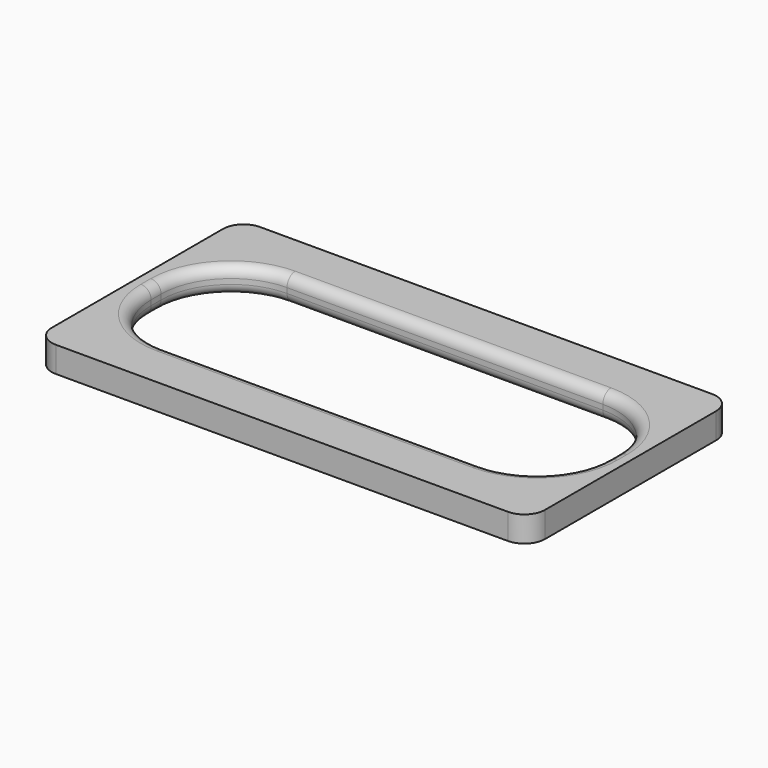
from build123d import *

# Parameters (mm, degrees)
F1_DEPTH = 3.175
F2_R     = 1.27
F3_R     = 1.27


with BuildPart() as f1:
    # F0 (on Top) → F1 (new body)
    with BuildSketch(Plane.XY):
        with BuildLine():
            ThreePointArc((30.4419, 13.208), (29.697951, 15.004051), (27.9019, 15.748))
            Line((27.9019, 15.748), (-27.9019, 15.748))
            ThreePointArc((-27.9019, 15.748), (-29.697951, 15.004051), (-30.4419, 13.208))
            Line((-30.4419, 13.208), (-30.4419, -13.208))
            ThreePointArc((-30.4419, -13.208), (-29.697951, -15.004051), (-27.9019, -15.748))
            Line((-27.9019, -15.748), (27.9019, -15.748))
            ThreePointArc((27.9019, -15.748), (29.697951, -15.004051), (30.4419, -13.208))
            Line((30.4419, -13.208), (30.4419, 13.208))
        make_face()
        with BuildLine():
            ThreePointArc((28.1305, -0.762), (25.601074, -6.868574), (19.4945, -9.398))
            Line((19.4945, -9.398), (-19.4945, -9.398))
            ThreePointArc((-19.4945, -9.398), (-25.601074, -6.868574), (-28.1305, -0.762))
            Line((-28.1305, -0.762), (-28.1305, 0.762))
            ThreePointArc((-28.1305, 0.762), (-25.601074, 6.868574), (-19.4945, 9.398))
            Line((-19.4945, 9.398), (19.4945, 9.398))
            ThreePointArc((19.4945, 9.398), (25.601074, 6.868574), (28.1305, 0.762))
            Line((28.1305, 0.762), (28.1305, -0.762))
        make_face(mode=Mode.SUBTRACT)
    extrude(amount=F1_DEPTH)

    # F2
    f2_edges = [f1.edges().sort_by_distance(p)[0] for p in [
        (0, -9.398, 3.175),
    ]]
    fillet(f2_edges, radius=F2_R)

    # F3
    f3_edges = [f1.edges().sort_by_distance(p)[0] for p in [
        (0, -9.398, 0),
        (25.601074, -6.868574, 0),
        (-25.601074, -6.868574, 0),
        (-25.601074, 6.868574, 0),
        (0, 9.398, 0),
        (25.601074, 6.868574, 0),
        (28.1305, 0, 0),
        (-28.1305, 0, 0),
    ]]
    fillet(f3_edges, radius=F3_R)


solid = f1.part
